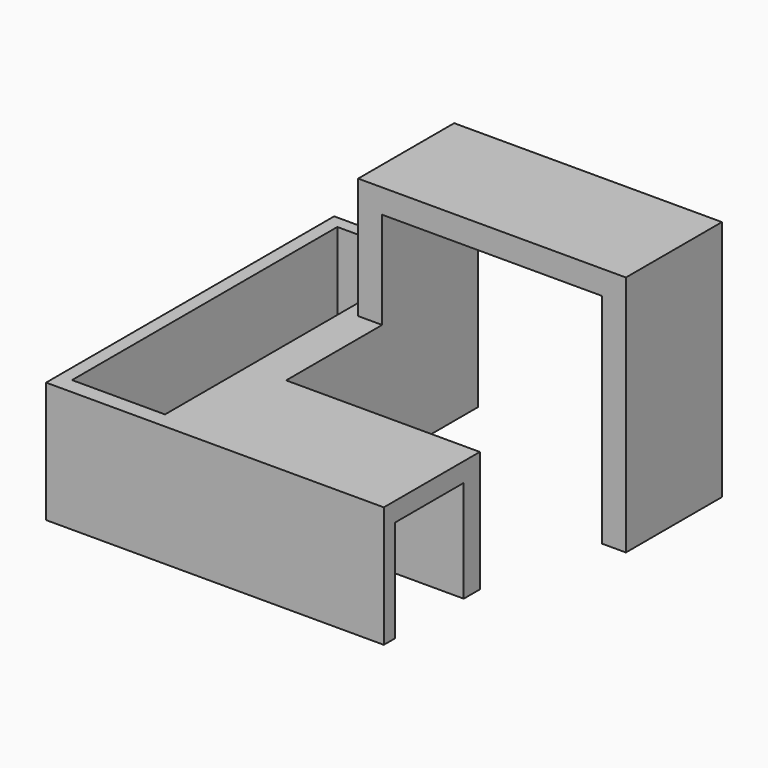
from build123d import *

# Parameters (mm, degrees)
F0_W      = 5
F0_H      = 25.21445
F1_DEPTH  = 25
F2_DEPTH  = 25
F3_W      = 40.349028
F3_H      = 25.21445
F3_W_2    = 5
F4_DEPTH  = 25
F6_DEPTH  = 25
F7_W      = 19.362385
F7_H      = 69.068812
F8_DEPTH  = 22
F9_W      = 17.915649
F9_H      = 21.240922
F10_DEPTH = 40


with BuildPart() as f1:
    # F0 (on Front) → F1 (new body)
    with BuildSketch(Plane.XZ):
        Polygon((0, 50.428901), (0, 25.21445), (5, 25.21445), (5, 45.428901), (50.775229, 45.428901), (50.775229, 0), (55.775229, 0), (55.775229, 50.428901), align=None)
        with Locations((2.5, 12.607225)):
            Rectangle(F0_W, F0_H)
    extrude(amount=-F1_DEPTH)

    # F0 (on Front) → F2 (join)
    with BuildSketch(Plane.XZ):
        with Locations((2.5, 12.607225)):
            Rectangle(F0_W, F0_H)
    extrude(amount=F2_DEPTH)

    # F3 (on face) → F4 (join)
    with BuildSketch(Plane.XZ.offset(25)):
        with Locations((25.174514, 12.607225)):
            Rectangle(F3_W, F3_H)
        with Locations((2.5, 12.607225)):
            Rectangle(F3_W_2, F3_H)
    extrude(amount=F4_DEPTH)

    # F5 (on face) → F6 (join)
    with BuildSketch(Plane(origin=(0, 0, 0), x_dir=(0, -1, 0), z_dir=(-1, 0, 0))):
        Polygon((-25, 25.21445), (-25, 0), (50, 0), (50, 25.21445), (0, 25.21445), align=None)
    extrude(amount=F6_DEPTH)

    # F7 (on face) → F8 (cut)
    with BuildSketch(Plane.XY.offset(25.21445)):
        with Locations((-12.571103, -12.137614)):
            Rectangle(F7_W, F7_H)
    extrude(amount=-F8_DEPTH, mode=Mode.SUBTRACT)

    # F9 (on face) → F10 (cut)
    with BuildSketch(Plane.YZ.offset(45.349028)):
        with Locations((-38.147681, 10.620461)):
            Rectangle(F9_W, F9_H)
    extrude(amount=-F10_DEPTH, mode=Mode.SUBTRACT)


solid = f1.part
